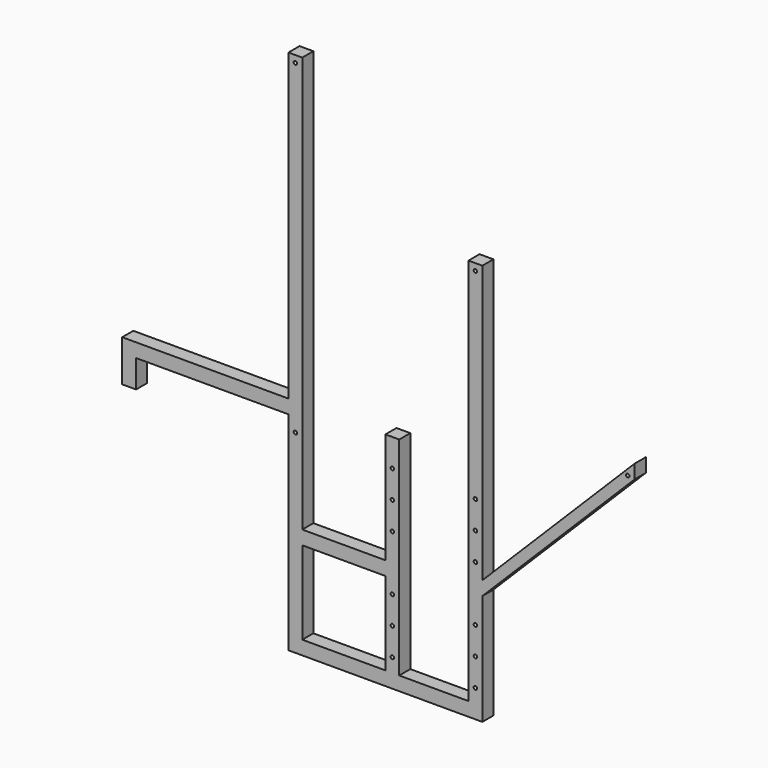
from build123d import *

# Parameters (mm, degrees)
F0_W     = 279.4
F0_H     = 25.4
F0_W_2   = 25.4
F0_H_2   = 558.8
F0_W_3   = 152.4
F0_W_4   = 127
F1_DEPTH = 12.7
F2_R     = 3.175
F3_DEPTH = 25.4


with BuildPart() as f1:
    # F0 (on Front) → F1 (new body, symmetric)
    with BuildSketch(Plane.XZ):
        with Locations((139.7, -12.7)):
            Rectangle(F0_W, F0_H)
        Polygon((0, -25.4), (0, 0), (-25.4, 0), (-25.4, -76.2), (0, -76.2), align=None)
        Polygon((304.8, 0), (279.4, 0), (279.4, -25.4), (279.4, -406.4), (304.8, -406.4), (304.8, -381), (304.8, -228.6), (304.8, -203.2), align=None)
        with Locations((292.1, 279.4)):
            Rectangle(F0_W_2, F0_H_2)
        with Locations((381, -215.9)):
            Rectangle(F0_W_3, F0_H)
        with Locations((381, -393.7)):
            Rectangle(F0_W_3, F0_H)
        Polygon((457.2, 0), (457.2, -203.2), (457.2, -228.6), (457.2, -381), (482.6, -381), (482.6, 0), align=None)
        with Locations((469.9, -393.7)):
            Rectangle(F0_W_2, F0_H)
        with Locations((546.1, -393.7)):
            Rectangle(F0_W_4, F0_H)
        Polygon((609.6, -381), (609.6, -406.4), (635, -406.4), (635, -203.2), (609.6, -203.2), align=None)
        Polygon((635, -177.8), (609.6, -203.2), (635, -203.2), align=None)
        Polygon((609.6, 330.2), (609.6, -203.2), (635, -177.8), (635, 330.2), align=None)
        Polygon((635, -177.8), (635, -203.2), (914.4, 76.2), (914.4, 101.6), align=None)
    extrude(amount=F1_DEPTH, both=True)

    # F2 (on face) → F3 (cut)
    with BuildSketch(Plane.XZ.offset(12.7)):
        with Locations((469.9, -101.6)):
            Circle(F2_R)
        with Locations((469.9, -50.8)):
            Circle(F2_R)
        with Locations((469.9, -152.4)):
            Circle(F2_R)
        with Locations((469.9, -304.8)):
            Circle(F2_R)
        with Locations((469.9, -254)):
            Circle(F2_R)
        with Locations((469.9, -355.6)):
            Circle(F2_R)
        with Locations((622.3, -101.6)):
            Circle(F2_R)
        with Locations((622.3, -50.8)):
            Circle(F2_R)
        with Locations((622.3, -152.4)):
            Circle(F2_R)
        with Locations((622.3, -254)):
            Circle(F2_R)
        with Locations((622.3, -304.8)):
            Circle(F2_R)
        with Locations((622.3, -355.6)):
            Circle(F2_R)
        with Locations((292.1, -50.8)):
            Circle(F2_R)
        with Locations((292.1, 546.1)):
            Circle(F2_R)
        with Locations((622.3, 317.5)):
            Circle(F2_R)
        with Locations((901.7, 78.1236926547)):
            Circle(F2_R)
    extrude(amount=-F3_DEPTH, mode=Mode.SUBTRACT)


solid = f1.part
